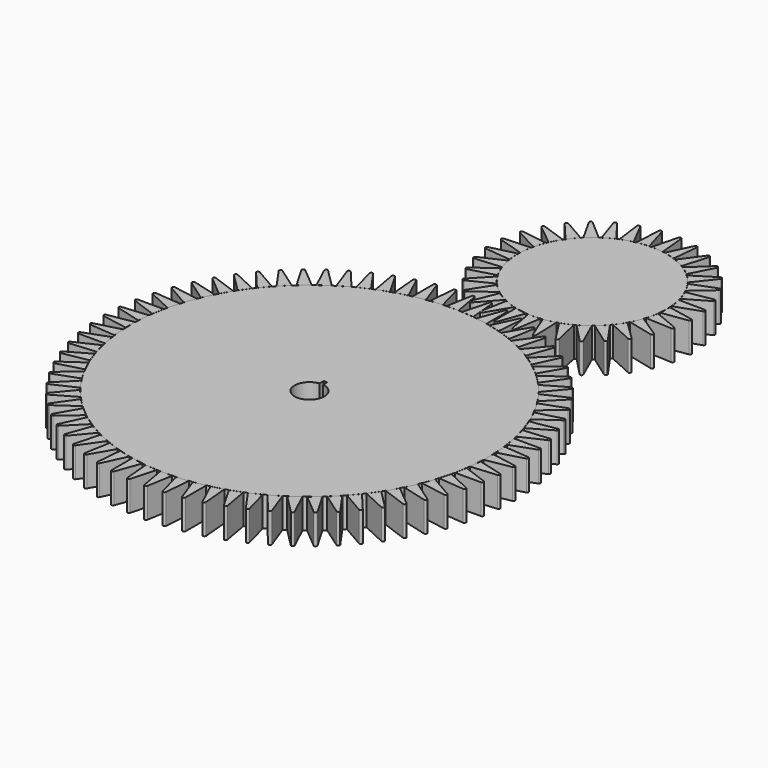
from build123d import *

# Parameters (mm, degrees)
F1_DEPTH = 25.4
F2_DEPTH = 25.4
F3_R     = 1.27
F4_COUNT = 72
F5_DEPTH = 25.4
F6_DEPTH = 25.4
F7_R     = 1.27
F8_COUNT = 33


with BuildPart() as f1:
    # F0 (on Top) → F1 (new body)
    with BuildSketch(Plane.XY):
        with BuildLine():
            Line((31.452099, 149.119165), (21.446453, 150.883431))
            ThreePointArc((21.446453, 150.883431), (-26.463982, -150.084702), (31.452099, 149.119165))
        make_face()
        with BuildLine():
            ThreePointArc((1.5875, 12.600391), (0, -12.7), (-1.5875, 12.600391))
            Line((-1.5875, 12.600391), (-1.5875, 17.057585))
            Line((-1.5875, 17.057585), (1.5875, 17.057585))
            Line((1.5875, 17.057585), (1.5875, 12.600391))
        make_face(mode=Mode.SUBTRACT)
    extrude(amount=F1_DEPTH)


with BuildPart() as f2:
    # F0 (on Top) → F2 (new body)
    with BuildSketch(Plane.XY):
        Polygon((31.452099, 178.373719), (21.446453, 150.883431), (31.452099, 149.119165), align=None)
    extrude(amount=F2_DEPTH)

    # F3
    f3_edges = [f2.edges().sort_by_distance(p)[0] for p in [
        (31.452099, 178.373719, 12.7),
    ]]
    fillet(f3_edges, radius=F3_R)


with BuildPart() as f4_1:
    # F4: instance of F2
    add(f2.part.rotate(Axis((0, 0, 0), (0, 0, -1)), 1 * 360 / F4_COUNT))


with BuildPart() as f4_2:
    # F4: instance of F2
    add(f2.part.rotate(Axis((0, 0, 0), (0, 0, -1)), 2 * 360 / F4_COUNT))


with BuildPart() as f4_3:
    # F4: instance of F2
    add(f2.part.rotate(Axis((0, 0, 0), (0, 0, -1)), 3 * 360 / F4_COUNT))


with BuildPart() as f4_4:
    # F4: instance of F2
    add(f2.part.rotate(Axis((0, 0, 0), (0, 0, -1)), 4 * 360 / F4_COUNT))


with BuildPart() as f4_5:
    # F4: instance of F2
    add(f2.part.rotate(Axis((0, 0, 0), (0, 0, -1)), 5 * 360 / F4_COUNT))


with BuildPart() as f4_6:
    # F4: instance of F2
    add(f2.part.rotate(Axis((0, 0, 0), (0, 0, -1)), 6 * 360 / F4_COUNT))


with BuildPart() as f4_7:
    # F4: instance of F2
    add(f2.part.rotate(Axis((0, 0, 0), (0, 0, -1)), 7 * 360 / F4_COUNT))


with BuildPart() as f4_8:
    # F4: instance of F2
    add(f2.part.rotate(Axis((0, 0, 0), (0, 0, -1)), 8 * 360 / F4_COUNT))


with BuildPart() as f4_9:
    # F4: instance of F2
    add(f2.part.rotate(Axis((0, 0, 0), (0, 0, -1)), 9 * 360 / F4_COUNT))


with BuildPart() as f4_10:
    # F4: instance of F2
    add(f2.part.rotate(Axis((0, 0, 0), (0, 0, -1)), 10 * 360 / F4_COUNT))


with BuildPart() as f4_11:
    # F4: instance of F2
    add(f2.part.rotate(Axis((0, 0, 0), (0, 0, -1)), 11 * 360 / F4_COUNT))


with BuildPart() as f4_12:
    # F4: instance of F2
    add(f2.part.rotate(Axis((0, 0, 0), (0, 0, -1)), 12 * 360 / F4_COUNT))


with BuildPart() as f4_13:
    # F4: instance of F2
    add(f2.part.rotate(Axis((0, 0, 0), (0, 0, -1)), 13 * 360 / F4_COUNT))


with BuildPart() as f4_14:
    # F4: instance of F2
    add(f2.part.rotate(Axis((0, 0, 0), (0, 0, -1)), 14 * 360 / F4_COUNT))


with BuildPart() as f4_15:
    # F4: instance of F2
    add(f2.part.rotate(Axis((0, 0, 0), (0, 0, -1)), 15 * 360 / F4_COUNT))


with BuildPart() as f4_16:
    # F4: instance of F2
    add(f2.part.rotate(Axis((0, 0, 0), (0, 0, -1)), 16 * 360 / F4_COUNT))


with BuildPart() as f4_17:
    # F4: instance of F2
    add(f2.part.rotate(Axis((0, 0, 0), (0, 0, -1)), 17 * 360 / F4_COUNT))


with BuildPart() as f4_18:
    # F4: instance of F2
    add(f2.part.rotate(Axis((0, 0, 0), (0, 0, -1)), 18 * 360 / F4_COUNT))


with BuildPart() as f4_19:
    # F4: instance of F2
    add(f2.part.rotate(Axis((0, 0, 0), (0, 0, -1)), 19 * 360 / F4_COUNT))


with BuildPart() as f4_20:
    # F4: instance of F2
    add(f2.part.rotate(Axis((0, 0, 0), (0, 0, -1)), 20 * 360 / F4_COUNT))


with BuildPart() as f4_21:
    # F4: instance of F2
    add(f2.part.rotate(Axis((0, 0, 0), (0, 0, -1)), 21 * 360 / F4_COUNT))


with BuildPart() as f4_22:
    # F4: instance of F2
    add(f2.part.rotate(Axis((0, 0, 0), (0, 0, -1)), 22 * 360 / F4_COUNT))


with BuildPart() as f4_23:
    # F4: instance of F2
    add(f2.part.rotate(Axis((0, 0, 0), (0, 0, -1)), 23 * 360 / F4_COUNT))


with BuildPart() as f4_24:
    # F4: instance of F2
    add(f2.part.rotate(Axis((0, 0, 0), (0, 0, -1)), 24 * 360 / F4_COUNT))


with BuildPart() as f4_25:
    # F4: instance of F2
    add(f2.part.rotate(Axis((0, 0, 0), (0, 0, -1)), 25 * 360 / F4_COUNT))


with BuildPart() as f4_26:
    # F4: instance of F2
    add(f2.part.rotate(Axis((0, 0, 0), (0, 0, -1)), 26 * 360 / F4_COUNT))


with BuildPart() as f4_27:
    # F4: instance of F2
    add(f2.part.rotate(Axis((0, 0, 0), (0, 0, -1)), 27 * 360 / F4_COUNT))


with BuildPart() as f4_28:
    # F4: instance of F2
    add(f2.part.rotate(Axis((0, 0, 0), (0, 0, -1)), 28 * 360 / F4_COUNT))


with BuildPart() as f4_29:
    # F4: instance of F2
    add(f2.part.rotate(Axis((0, 0, 0), (0, 0, -1)), 29 * 360 / F4_COUNT))


with BuildPart() as f4_30:
    # F4: instance of F2
    add(f2.part.rotate(Axis((0, 0, 0), (0, 0, -1)), 30 * 360 / F4_COUNT))


with BuildPart() as f4_31:
    # F4: instance of F2
    add(f2.part.rotate(Axis((0, 0, 0), (0, 0, -1)), 31 * 360 / F4_COUNT))


with BuildPart() as f4_32:
    # F4: instance of F2
    add(f2.part.rotate(Axis((0, 0, 0), (0, 0, -1)), 32 * 360 / F4_COUNT))


with BuildPart() as f4_33:
    # F4: instance of F2
    add(f2.part.rotate(Axis((0, 0, 0), (0, 0, -1)), 33 * 360 / F4_COUNT))


with BuildPart() as f4_34:
    # F4: instance of F2
    add(f2.part.rotate(Axis((0, 0, 0), (0, 0, -1)), 34 * 360 / F4_COUNT))


with BuildPart() as f4_35:
    # F4: instance of F2
    add(f2.part.rotate(Axis((0, 0, 0), (0, 0, -1)), 35 * 360 / F4_COUNT))


with BuildPart() as f4_36:
    # F4: instance of F2
    add(f2.part.rotate(Axis((0, 0, 0), (0, 0, -1)), 36 * 360 / F4_COUNT))


with BuildPart() as f4_37:
    # F4: instance of F2
    add(f2.part.rotate(Axis((0, 0, 0), (0, 0, -1)), 37 * 360 / F4_COUNT))


with BuildPart() as f4_38:
    # F4: instance of F2
    add(f2.part.rotate(Axis((0, 0, 0), (0, 0, -1)), 38 * 360 / F4_COUNT))


with BuildPart() as f4_39:
    # F4: instance of F2
    add(f2.part.rotate(Axis((0, 0, 0), (0, 0, -1)), 39 * 360 / F4_COUNT))


with BuildPart() as f4_40:
    # F4: instance of F2
    add(f2.part.rotate(Axis((0, 0, 0), (0, 0, -1)), 40 * 360 / F4_COUNT))


with BuildPart() as f4_41:
    # F4: instance of F2
    add(f2.part.rotate(Axis((0, 0, 0), (0, 0, -1)), 41 * 360 / F4_COUNT))


with BuildPart() as f4_42:
    # F4: instance of F2
    add(f2.part.rotate(Axis((0, 0, 0), (0, 0, -1)), 42 * 360 / F4_COUNT))


with BuildPart() as f4_43:
    # F4: instance of F2
    add(f2.part.rotate(Axis((0, 0, 0), (0, 0, -1)), 43 * 360 / F4_COUNT))


with BuildPart() as f4_44:
    # F4: instance of F2
    add(f2.part.rotate(Axis((0, 0, 0), (0, 0, -1)), 44 * 360 / F4_COUNT))


with BuildPart() as f4_45:
    # F4: instance of F2
    add(f2.part.rotate(Axis((0, 0, 0), (0, 0, -1)), 45 * 360 / F4_COUNT))


with BuildPart() as f4_46:
    # F4: instance of F2
    add(f2.part.rotate(Axis((0, 0, 0), (0, 0, -1)), 46 * 360 / F4_COUNT))


with BuildPart() as f4_47:
    # F4: instance of F2
    add(f2.part.rotate(Axis((0, 0, 0), (0, 0, -1)), 47 * 360 / F4_COUNT))


with BuildPart() as f4_48:
    # F4: instance of F2
    add(f2.part.rotate(Axis((0, 0, 0), (0, 0, -1)), 48 * 360 / F4_COUNT))


with BuildPart() as f4_49:
    # F4: instance of F2
    add(f2.part.rotate(Axis((0, 0, 0), (0, 0, -1)), 49 * 360 / F4_COUNT))


with BuildPart() as f4_50:
    # F4: instance of F2
    add(f2.part.rotate(Axis((0, 0, 0), (0, 0, -1)), 50 * 360 / F4_COUNT))


with BuildPart() as f4_51:
    # F4: instance of F2
    add(f2.part.rotate(Axis((0, 0, 0), (0, 0, -1)), 51 * 360 / F4_COUNT))


with BuildPart() as f4_52:
    # F4: instance of F2
    add(f2.part.rotate(Axis((0, 0, 0), (0, 0, -1)), 52 * 360 / F4_COUNT))


with BuildPart() as f4_53:
    # F4: instance of F2
    add(f2.part.rotate(Axis((0, 0, 0), (0, 0, -1)), 53 * 360 / F4_COUNT))


with BuildPart() as f4_54:
    # F4: instance of F2
    add(f2.part.rotate(Axis((0, 0, 0), (0, 0, -1)), 54 * 360 / F4_COUNT))


with BuildPart() as f4_55:
    # F4: instance of F2
    add(f2.part.rotate(Axis((0, 0, 0), (0, 0, -1)), 55 * 360 / F4_COUNT))


with BuildPart() as f4_56:
    # F4: instance of F2
    add(f2.part.rotate(Axis((0, 0, 0), (0, 0, -1)), 56 * 360 / F4_COUNT))


with BuildPart() as f4_57:
    # F4: instance of F2
    add(f2.part.rotate(Axis((0, 0, 0), (0, 0, -1)), 57 * 360 / F4_COUNT))


with BuildPart() as f4_58:
    # F4: instance of F2
    add(f2.part.rotate(Axis((0, 0, 0), (0, 0, -1)), 58 * 360 / F4_COUNT))


with BuildPart() as f4_59:
    # F4: instance of F2
    add(f2.part.rotate(Axis((0, 0, 0), (0, 0, -1)), 59 * 360 / F4_COUNT))


with BuildPart() as f4_60:
    # F4: instance of F2
    add(f2.part.rotate(Axis((0, 0, 0), (0, 0, -1)), 60 * 360 / F4_COUNT))


with BuildPart() as f4_61:
    # F4: instance of F2
    add(f2.part.rotate(Axis((0, 0, 0), (0, 0, -1)), 61 * 360 / F4_COUNT))


with BuildPart() as f4_62:
    # F4: instance of F2
    add(f2.part.rotate(Axis((0, 0, 0), (0, 0, -1)), 62 * 360 / F4_COUNT))


with BuildPart() as f4_63:
    # F4: instance of F2
    add(f2.part.rotate(Axis((0, 0, 0), (0, 0, -1)), 63 * 360 / F4_COUNT))


with BuildPart() as f4_64:
    # F4: instance of F2
    add(f2.part.rotate(Axis((0, 0, 0), (0, 0, -1)), 64 * 360 / F4_COUNT))


with BuildPart() as f4_65:
    # F4: instance of F2
    add(f2.part.rotate(Axis((0, 0, 0), (0, 0, -1)), 65 * 360 / F4_COUNT))


with BuildPart() as f4_66:
    # F4: instance of F2
    add(f2.part.rotate(Axis((0, 0, 0), (0, 0, -1)), 66 * 360 / F4_COUNT))


with BuildPart() as f4_67:
    # F4: instance of F2
    add(f2.part.rotate(Axis((0, 0, 0), (0, 0, -1)), 67 * 360 / F4_COUNT))


with BuildPart() as f4_68:
    # F4: instance of F2
    add(f2.part.rotate(Axis((0, 0, 0), (0, 0, -1)), 68 * 360 / F4_COUNT))


with BuildPart() as f4_69:
    # F4: instance of F2
    add(f2.part.rotate(Axis((0, 0, 0), (0, 0, -1)), 69 * 360 / F4_COUNT))


with BuildPart() as f4_70:
    # F4: instance of F2
    add(f2.part.rotate(Axis((0, 0, 0), (0, 0, -1)), 70 * 360 / F4_COUNT))


with BuildPart() as f4_71:
    # F4: instance of F2
    add(f2.part.rotate(Axis((0, 0, 0), (0, 0, -1)), 71 * 360 / F4_COUNT))


with BuildPart() as f5:
    # F0 (on Top) → F5 (new body)
    with BuildSketch(Plane.XY):
        with BuildLine():
            ThreePointArc((42.735904, 177.03388), (91.269636, 193.407652), (111.92809, 240.278239))
            ThreePointArc((111.92809, 240.278239), (9.473504, 290.425923), (32.722099, 178.751238))
            Line((32.722099, 178.751238), (42.735904, 177.03388))
        make_face()
    extrude(amount=F5_DEPTH)


with BuildPart() as f6:
    # F0 (on Top) → F6 (new body)
    with BuildSketch(Plane.XY):
        with BuildLine():
            ThreePointArc((42.735904, 177.03388), (37.694599, 177.691961), (32.722099, 178.751238))
            Line((32.722099, 178.751238), (32.722099, 149.11479))
            Line((32.722099, 149.11479), (42.735904, 177.03388))
        make_face()
    extrude(amount=F6_DEPTH)

    # F7
    f7_edges = [f6.edges().sort_by_distance(p)[0] for p in [
        (32.722099, 149.11479, 12.7),
    ]]
    fillet(f7_edges, radius=F7_R)


with BuildPart() as f8_1:
    # F8: instance of F6
    add(f6.part.rotate(Axis((48.42809, 240.278239, 0), (0, 0, -1)), 1 * 360 / F8_COUNT))


with BuildPart() as f8_2:
    # F8: instance of F6
    add(f6.part.rotate(Axis((48.42809, 240.278239, 0), (0, 0, -1)), 2 * 360 / F8_COUNT))


with BuildPart() as f8_3:
    # F8: instance of F6
    add(f6.part.rotate(Axis((48.42809, 240.278239, 0), (0, 0, -1)), 3 * 360 / F8_COUNT))


with BuildPart() as f8_4:
    # F8: instance of F6
    add(f6.part.rotate(Axis((48.42809, 240.278239, 0), (0, 0, -1)), 4 * 360 / F8_COUNT))


with BuildPart() as f8_5:
    # F8: instance of F6
    add(f6.part.rotate(Axis((48.42809, 240.278239, 0), (0, 0, -1)), 5 * 360 / F8_COUNT))


with BuildPart() as f8_6:
    # F8: instance of F6
    add(f6.part.rotate(Axis((48.42809, 240.278239, 0), (0, 0, -1)), 6 * 360 / F8_COUNT))


with BuildPart() as f8_7:
    # F8: instance of F6
    add(f6.part.rotate(Axis((48.42809, 240.278239, 0), (0, 0, -1)), 7 * 360 / F8_COUNT))


with BuildPart() as f8_8:
    # F8: instance of F6
    add(f6.part.rotate(Axis((48.42809, 240.278239, 0), (0, 0, -1)), 8 * 360 / F8_COUNT))


with BuildPart() as f8_9:
    # F8: instance of F6
    add(f6.part.rotate(Axis((48.42809, 240.278239, 0), (0, 0, -1)), 9 * 360 / F8_COUNT))


with BuildPart() as f8_10:
    # F8: instance of F6
    add(f6.part.rotate(Axis((48.42809, 240.278239, 0), (0, 0, -1)), 10 * 360 / F8_COUNT))


with BuildPart() as f8_11:
    # F8: instance of F6
    add(f6.part.rotate(Axis((48.42809, 240.278239, 0), (0, 0, -1)), 11 * 360 / F8_COUNT))


with BuildPart() as f8_12:
    # F8: instance of F6
    add(f6.part.rotate(Axis((48.42809, 240.278239, 0), (0, 0, -1)), 12 * 360 / F8_COUNT))


with BuildPart() as f8_13:
    # F8: instance of F6
    add(f6.part.rotate(Axis((48.42809, 240.278239, 0), (0, 0, -1)), 13 * 360 / F8_COUNT))


with BuildPart() as f8_14:
    # F8: instance of F6
    add(f6.part.rotate(Axis((48.42809, 240.278239, 0), (0, 0, -1)), 14 * 360 / F8_COUNT))


with BuildPart() as f8_15:
    # F8: instance of F6
    add(f6.part.rotate(Axis((48.42809, 240.278239, 0), (0, 0, -1)), 15 * 360 / F8_COUNT))


with BuildPart() as f8_16:
    # F8: instance of F6
    add(f6.part.rotate(Axis((48.42809, 240.278239, 0), (0, 0, -1)), 16 * 360 / F8_COUNT))


with BuildPart() as f8_17:
    # F8: instance of F6
    add(f6.part.rotate(Axis((48.42809, 240.278239, 0), (0, 0, -1)), 17 * 360 / F8_COUNT))


with BuildPart() as f8_18:
    # F8: instance of F6
    add(f6.part.rotate(Axis((48.42809, 240.278239, 0), (0, 0, -1)), 18 * 360 / F8_COUNT))


with BuildPart() as f8_19:
    # F8: instance of F6
    add(f6.part.rotate(Axis((48.42809, 240.278239, 0), (0, 0, -1)), 19 * 360 / F8_COUNT))


with BuildPart() as f8_20:
    # F8: instance of F6
    add(f6.part.rotate(Axis((48.42809, 240.278239, 0), (0, 0, -1)), 20 * 360 / F8_COUNT))


with BuildPart() as f8_21:
    # F8: instance of F6
    add(f6.part.rotate(Axis((48.42809, 240.278239, 0), (0, 0, -1)), 21 * 360 / F8_COUNT))


with BuildPart() as f8_22:
    # F8: instance of F6
    add(f6.part.rotate(Axis((48.42809, 240.278239, 0), (0, 0, -1)), 22 * 360 / F8_COUNT))


with BuildPart() as f8_23:
    # F8: instance of F6
    add(f6.part.rotate(Axis((48.42809, 240.278239, 0), (0, 0, -1)), 23 * 360 / F8_COUNT))


with BuildPart() as f8_24:
    # F8: instance of F6
    add(f6.part.rotate(Axis((48.42809, 240.278239, 0), (0, 0, -1)), 24 * 360 / F8_COUNT))


with BuildPart() as f8_25:
    # F8: instance of F6
    add(f6.part.rotate(Axis((48.42809, 240.278239, 0), (0, 0, -1)), 25 * 360 / F8_COUNT))


with BuildPart() as f8_26:
    # F8: instance of F6
    add(f6.part.rotate(Axis((48.42809, 240.278239, 0), (0, 0, -1)), 26 * 360 / F8_COUNT))


with BuildPart() as f8_27:
    # F8: instance of F6
    add(f6.part.rotate(Axis((48.42809, 240.278239, 0), (0, 0, -1)), 27 * 360 / F8_COUNT))


with BuildPart() as f8_28:
    # F8: instance of F6
    add(f6.part.rotate(Axis((48.42809, 240.278239, 0), (0, 0, -1)), 28 * 360 / F8_COUNT))


with BuildPart() as f8_29:
    # F8: instance of F6
    add(f6.part.rotate(Axis((48.42809, 240.278239, 0), (0, 0, -1)), 29 * 360 / F8_COUNT))


with BuildPart() as f8_30:
    # F8: instance of F6
    add(f6.part.rotate(Axis((48.42809, 240.278239, 0), (0, 0, -1)), 30 * 360 / F8_COUNT))


with BuildPart() as f8_31:
    # F8: instance of F6
    add(f6.part.rotate(Axis((48.42809, 240.278239, 0), (0, 0, -1)), 31 * 360 / F8_COUNT))


with BuildPart() as f8_32:
    # F8: instance of F6
    add(f6.part.rotate(Axis((48.42809, 240.278239, 0), (0, 0, -1)), 32 * 360 / F8_COUNT))


solid = Compound([f1.part, f2.part, f4_1.part, f4_2.part, f4_3.part, f4_4.part, f4_5.part, f4_6.part, f4_7.part, f4_8.part, f4_9.part, f4_10.part, f4_11.part, f4_12.part, f4_13.part, f4_14.part, f4_15.part, f4_16.part, f4_17.part, f4_18.part, f4_19.part, f4_20.part, f4_21.part, f4_22.part, f4_23.part, f4_24.part, f4_25.part, f4_26.part, f4_27.part, f4_28.part, f4_29.part, f4_30.part, f4_31.part, f4_32.part, f4_33.part, f4_34.part, f4_35.part, f4_36.part, f4_37.part, f4_38.part, f4_39.part, f4_40.part, f4_41.part, f4_42.part, f4_43.part, f4_44.part, f4_45.part, f4_46.part, f4_47.part, f4_48.part, f4_49.part, f4_50.part, f4_51.part, f4_52.part, f4_53.part, f4_54.part, f4_55.part, f4_56.part, f4_57.part, f4_58.part, f4_59.part, f4_60.part, f4_61.part, f4_62.part, f4_63.part, f4_64.part, f4_65.part, f4_66.part, f4_67.part, f4_68.part, f4_69.part, f4_70.part, f4_71.part, f5.part, f6.part, f8_1.part, f8_2.part, f8_3.part, f8_4.part, f8_5.part, f8_6.part, f8_7.part, f8_8.part, f8_9.part, f8_10.part, f8_11.part, f8_12.part, f8_13.part, f8_14.part, f8_15.part, f8_16.part, f8_17.part, f8_18.part, f8_19.part, f8_20.part, f8_21.part, f8_22.part, f8_23.part, f8_24.part, f8_25.part, f8_26.part, f8_27.part, f8_28.part, f8_29.part, f8_30.part, f8_31.part, f8_32.part])
